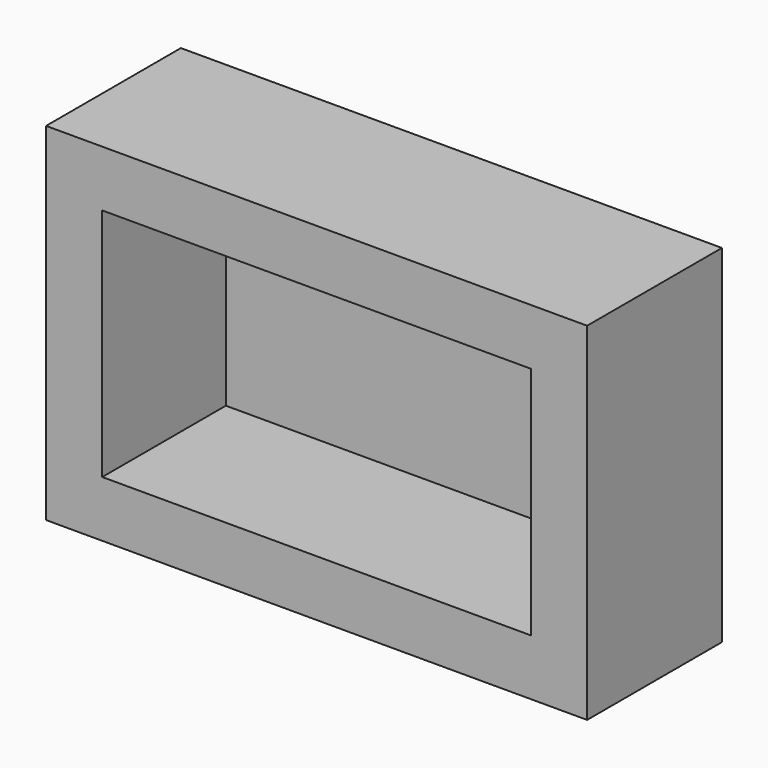
from build123d import *

# Parameters (mm, degrees)
F0_W     = 193.871734
F0_H     = 106.138659
F1_DEPTH = 6.35
F0_W_2   = 244.671734
F0_H_2   = 156.938659
F2_DEPTH = 76.2


with BuildPart() as f1:
    # F0 (on Front) → F1 (new body)
    with BuildSketch(Plane.XZ):
        with Locations((0.24253, -4.569166)):
            Rectangle(F0_W, F0_H)
    extrude(amount=F1_DEPTH)


with BuildPart() as f2:
    # F0 (on Front) → F2 (new body)
    with BuildSketch(Plane.XZ):
        with Locations((0.24253, -4.569165)):
            Rectangle(F0_W_2, F0_H_2)
        with Locations((0.24253, -4.569166)):
            Rectangle(F0_W, F0_H, mode=Mode.SUBTRACT)
    extrude(amount=F2_DEPTH)


solid = Compound([f1.part, f2.part])
